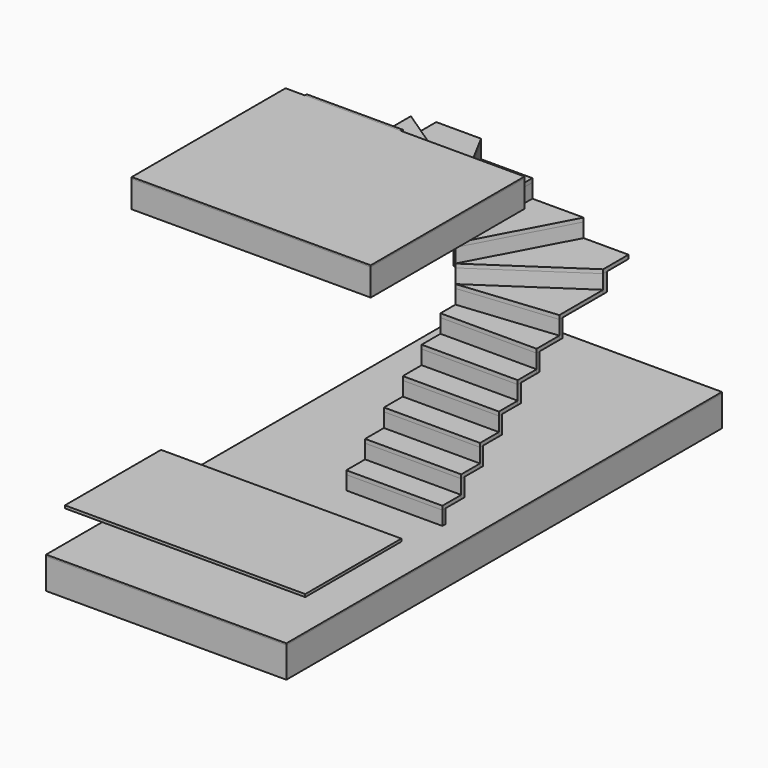
from build123d import *

# Parameters (mm, degrees)
F4_W      = 2486.2963052011
F4_H      = 280
F5_DEPTH  = 2000
F6_DEPTH  = 16
F7_W      = 5664.1902506969
F7_H      = 317.7745664499
F8_DEPTH  = 2500
F9_DEPTH  = 16
F2_W      = 1000
F2_H      = 245
F10_DEPTH = 40
F12_W     = 1000
F12_H     = 245
F13_DEPTH = 40
F16_DEPTH = 40
F19_DEPTH = 40
F22_DEPTH = 40
F25_DEPTH = 40
F28_DEPTH = 40
F31_DEPTH = 40
F34_DEPTH = 40
F37_DEPTH = 40
F39_W     = 1000
F39_H     = 245
F40_DEPTH = 40
F42_W     = 1000
F42_H     = 245
F43_DEPTH = 40
F46_DEPTH = 40
F48_W     = 1000
F48_H     = 245
F49_DEPTH = 40
F51_W     = 1000
F51_H     = 245
F52_DEPTH = 40
F53_W     = 1000
F53_H     = 40
F53_H_2   = 188
F54_DEPTH = 25
F55_W     = 40
F55_H     = 188
F56_DEPTH = 1000
F57_W     = 40
F57_H     = 188
F58_DEPTH = 1000
F60_DEPTH = 188
F62_DEPTH = 188
F64_DEPTH = 188
F65_W     = 40
F65_H     = 1000
F66_DEPTH = 188
F68_DEPTH = 188
F70_DEPTH = 188
F72_DEPTH = 188
F73_W     = 40
F73_H     = 188
F74_DEPTH = 1000
F73_H_2   = 145
F75_W     = 2500
F75_H     = 1250
F76_DEPTH = 28


with BuildPart() as f5:
    # F4 (on plane+point) → F5 (new body)
    with BuildSketch(Plane.XZ.offset(855)):
        with Locations((43.2685017586, 32)):
            Rectangle(F4_W, F4_H)
    extrude(amount=F5_DEPTH)


with BuildPart() as f6:
    # F6 (new): a face of the model
    f6_faces = [f5.part.faces().sort_by_distance(p)[0] for p in [
        (43.2685017586, -1855, 172),
    ]]
    extrude(f6_faces, amount=F6_DEPTH)


with BuildPart() as f8:
    # F7 (on face) → F8 (new body)
    with BuildSketch(Plane(origin=(-1199.879650842, 0, 0), x_dir=(0, -1, 0), z_dir=(-1, 0, 0))):
        with Locations((1136.8854641914, -2991.8872832249)):
            Rectangle(F7_W, F7_H)
    extrude(amount=-F8_DEPTH)


with BuildPart() as f9:
    # F9 (new): a face of the model
    f9_faces = [f8.part.faces().sort_by_distance(p)[0] for p in [
        (50.120349158, -1136.8854641914, -2833),
    ]]
    extrude(f9_faces, amount=F9_DEPTH)


with BuildPart() as f10:
    # F2 (on Top) → F10 (new body)
    with BuildSketch(Plane.XY):
        with Locations((-500, -707.5)):
            Rectangle(F2_W, F2_H)
    extrude(amount=-F10_DEPTH)


with BuildPart() as f13:
    # F12 (on offset) → F13 (new body)
    with BuildSketch(Plane(origin=(0, 0, -188), x_dir=(1, 0, 0), z_dir=(0, 0, -1))):
        with Locations((-500, 462.5)):
            Rectangle(F12_W, F12_H)
    extrude(amount=F13_DEPTH)


with BuildPart() as f16:
    # F15 (on offset) → F16 (new body)
    with BuildSketch(Plane(origin=(0, 0, -376), x_dir=(1, 0, 0), z_dir=(0, 0, -1))):
        Polygon((-1000, 340), (-1000, 43.8609200193), (-497.4621748888, 94.6871333065), (0, 145), (0, 340), align=None)
    extrude(amount=F16_DEPTH)


with BuildPart() as f19:
    # F18 (on offset) → F19 (new body)
    with BuildSketch(Plane(origin=(0, 0, -564), x_dir=(1, 0, 0), z_dir=(0, 0, -1))):
        Polygon((-415.248685246, -133.5112733831), (0, 145), (-497.4621748888, 94.6871333065), (-1000, 43.8609200193), (-1000, -525.7095850722), align=None)
    extrude(amount=F19_DEPTH)


with BuildPart() as f22:
    # F21 (on offset) → F22 (new body)
    with BuildSketch(Plane(origin=(0, 0, -752), x_dir=(1, 0, 0), z_dir=(0, 0, -1))):
        Polygon((-415.248685246, -133.5112733831), (-1000, -525.7095850722), (-1000, -855), (-533.3881466372, -855), (-235.3129440856, -296.1664293051), (0, 145), align=None)
    extrude(amount=F22_DEPTH)


with BuildPart() as f25:
    # F24 (on offset) → F25 (new body)
    with BuildSketch(Plane(origin=(0, 0, -940), x_dir=(1, 0, 0), z_dir=(0, 0, -1))):
        Polygon((-533.3881466372, -855), (0, -855), (0, 145), (-235.3129440856, -296.1664293051), align=None)
    extrude(amount=F25_DEPTH)


with BuildPart() as f28:
    # F27 (on offset) → F28 (new body)
    with BuildSketch(Plane(origin=(0, 0, -1128), x_dir=(1, 0, 0), z_dir=(0, 0, -1))):
        Polygon((0, -855), (533.3881466372, -855), (235.3129440856, -296.1664293051), (0, 145), align=None)
    extrude(amount=F28_DEPTH)


with BuildPart() as f31:
    # F30 (on offset) → F31 (new body)
    with BuildSketch(Plane(origin=(0, 0, -1316), x_dir=(1, 0, 0), z_dir=(0, 0, -1))):
        Polygon((415.248685246, -133.5112733831), (0, 145), (235.3129440856, -296.1664293051), (533.3881466372, -855), (1000, -855), (1000, -525.7095850722), align=None)
    extrude(amount=F31_DEPTH)


with BuildPart() as f34:
    # F33 (on offset) → F34 (new body)
    with BuildSketch(Plane(origin=(0, 0, -1504), x_dir=(1, 0, 0), z_dir=(0, 0, -1))):
        Polygon((497.4621748888, 94.6871333065), (0, 145), (415.248685246, -133.5112733831), (1000, -525.7095850722), (1000, 43.8609200193), align=None)
    extrude(amount=F34_DEPTH)


with BuildPart() as f37:
    # F36 (on offset) → F37 (new body)
    with BuildSketch(Plane(origin=(0, 0, -1692), x_dir=(1, 0, 0), z_dir=(0, 0, -1))):
        Polygon((497.4621748888, 94.6871333065), (1000, 43.8609200193), (1000, 340), (0, 340), (0, 145), align=None)
    extrude(amount=F37_DEPTH)


with BuildPart() as f40:
    # F39 (on offset) → F40 (new body)
    with BuildSketch(Plane(origin=(0, 0, -1880), x_dir=(1, 0, 0), z_dir=(0, 0, -1))):
        with Locations((500, 462.5)):
            Rectangle(F39_W, F39_H)
    extrude(amount=F40_DEPTH)


with BuildPart() as f43:
    # F42 (on offset) → F43 (new body)
    with BuildSketch(Plane(origin=(0, 0, -2068), x_dir=(1, 0, 0), z_dir=(0, 0, -1))):
        with Locations((500, 707.5)):
            Rectangle(F42_W, F42_H)
    extrude(amount=F43_DEPTH)


with BuildPart() as f46:
    # F45 (on offset) → F46 (new body)
    with BuildSketch(Plane(origin=(0, 0, -2256), x_dir=(1, 0, 0), z_dir=(0, 0, -1))):
        Polygon((0, 1075), (0, 855), (0, 830), (1000, 830), (1000, 855), (1000, 1075), align=None)
    extrude(amount=F46_DEPTH)


with BuildPart() as f49:
    # F48 (on offset) → F49 (new body)
    with BuildSketch(Plane(origin=(0, 0, -2444), x_dir=(1, 0, 0), z_dir=(0, 0, -1))):
        with Locations((500, 1197.5)):
            Rectangle(F48_W, F48_H)
    extrude(amount=F49_DEPTH)


with BuildPart() as f52:
    # F51 (on offset) → F52 (new body)
    with BuildSketch(Plane(origin=(0, 0, -2632), x_dir=(1, 0, 0), z_dir=(0, 0, -1))):
        with Locations((500, 1442.5)):
            Rectangle(F51_W, F51_H)
    extrude(amount=F52_DEPTH)


with BuildPart() as f54:
    # F53 (on face) → F54 (new body)
    with BuildSketch(Plane.XZ.offset(830)):
        with Locations((-500, -20)):
            Rectangle(F53_W, F53_H)
        with Locations((-500, 94)):
            Rectangle(F53_W, F53_H_2)
    extrude(amount=F54_DEPTH)


with BuildPart() as f56:
    # F55 (on face) → F56 (new body)
    with BuildSketch(Plane(origin=(-1000, 0, 0), x_dir=(0, -1, 0), z_dir=(-1, 0, 0))):
        with Locations((605, -134)):
            Rectangle(F55_W, F55_H)
    extrude(amount=-F56_DEPTH)


with BuildPart() as f58:
    # F57 (on face) → F58 (new body)
    with BuildSketch(Plane(origin=(-1000, 0, 0), x_dir=(0, -1, 0), z_dir=(-1, 0, 0))):
        with Locations((360, -322)):
            Rectangle(F57_W, F57_H)
    extrude(amount=-F58_DEPTH)


with BuildPart() as f60:
    # F59 (on face) → F60 (new body)
    with BuildSketch(Plane(origin=(0, 0, -416), x_dir=(1, 0, 0), z_dir=(0, 0, -1))):
        Polygon((-1000, 43.8609200193), (0, 145), (0, 185.204061755), (-1000, 84.0649817743), align=None)
    extrude(amount=F60_DEPTH)


with BuildPart() as f62:
    # F61 (on face) → F62 (new body)
    with BuildSketch(Plane(origin=(0, 0, -604), x_dir=(1, 0, 0), z_dir=(0, 0, -1))):
        Polygon((-1000, -525.7095850722), (0, 145), (-84.5618037413, 136.4474969681), (-1000, -477.5456758038), align=None)
        Polygon((-84.5618037413, 136.4474969681), (0, 145), (-22.2809018706, 178.2198948197), align=None)
    extrude(amount=F62_DEPTH)


with BuildPart() as f64:
    # F63 (on face) → F64 (new body)
    with BuildSketch(Plane(origin=(0, 0, -792), x_dir=(1, 0, 0), z_dir=(0, 0, -1))):
        Polygon((-533.3881466372, -855), (0, 145), (-70.5866286888, 97.6568715605), (-578.7225117917, -855), align=None)
        Polygon((-70.5866286888, 97.6568715605), (0, 145), (-35.2933143444, 163.8250355268), align=None)
    extrude(amount=F64_DEPTH)


with BuildPart() as f66:
    # F65 (on face) → F66 (new body)
    with BuildSketch(Plane(origin=(0, 0, -980), x_dir=(1, 0, 0), z_dir=(0, 0, -1))):
        with Locations((-20, -355)):
            Rectangle(F65_W, F65_H)
    extrude(amount=F66_DEPTH)


with BuildPart() as f68:
    # F67 (on face) → F68 (new body)
    with BuildSketch(Plane(origin=(0, 0, -1168), x_dir=(1, 0, 0), z_dir=(0, 0, -1))):
        Polygon((533.3881466372, -855), (0, 145), (-35.2933143444, 126.1749644732), (488.0537814828, -855), align=None)
    extrude(amount=F68_DEPTH)


with BuildPart() as f70:
    # F69 (on face) → F70 (new body)
    with BuildSketch(Plane(origin=(0, 0, -1356), x_dir=(1, 0, 0), z_dir=(0, 0, -1))):
        Polygon((1000, -573.8734943406), (1000, -525.7095850722), (0, 145), (-22.2809018706, 111.7801051803), align=None)
    extrude(amount=F70_DEPTH)


with BuildPart() as f72:
    # F71 (on face) → F72 (new body)
    with BuildSketch(Plane(origin=(0, 0, -1544), x_dir=(1, 0, 0), z_dir=(0, 0, -1))):
        Polygon((1000, 3.6568582643), (1000, 43.8609200193), (0, 145), (-4.0250293355, 105.2030260089), align=None)
    extrude(amount=F72_DEPTH)


with BuildPart() as f74:
    # F73 (on face) → F74 (new body)
    with BuildSketch(Plane.YZ.offset(1000)):
        with Locations((-565, -2014)):
            Rectangle(F73_W, F73_H)
    extrude(amount=-F74_DEPTH)


with BuildPart() as f74b:
    # F73 (on face) → F74, piece 2 (new body)
    with BuildSketch(Plane.YZ.offset(1000)):
        with Locations((-810, -2202)):
            Rectangle(F73_W, F73_H)
    extrude(amount=-F74_DEPTH)


with BuildPart() as f74c:
    # F73 (on face) → F74, piece 3 (new body)
    with BuildSketch(Plane.YZ.offset(1000)):
        with Locations((-1055, -2390)):
            Rectangle(F73_W, F73_H)
    extrude(amount=-F74_DEPTH)


with BuildPart() as f74d:
    # F73 (on face) → F74, piece 4 (new body)
    with BuildSketch(Plane.YZ.offset(1000)):
        with Locations((-1300, -2578)):
            Rectangle(F73_W, F73_H)
    extrude(amount=-F74_DEPTH)


with BuildPart() as f74e:
    # F73 (on face) → F74, piece 5 (new body)
    with BuildSketch(Plane.YZ.offset(1000)):
        with Locations((-1545, -2744.5)):
            Rectangle(F73_W, F73_H_2)
    extrude(amount=-F74_DEPTH)


with BuildPart() as f74f:
    # F73 (on face) → F74, piece 6 (new body)
    with BuildSketch(Plane.YZ.offset(1000)):
        with Locations((-320, -1826)):
            Rectangle(F73_W, F73_H)
    extrude(amount=-F74_DEPTH)


with BuildPart() as f76:
    # F75 (on face) → F76 (new body)
    with BuildSketch(Plane.XY.offset(-2817)):
        with Locations((-337.8175497055, -2613.9054298401)):
            Rectangle(F75_W, F75_H)
    extrude(amount=F76_DEPTH)


solid = Compound([f5.part, f6.part, f8.part, f9.part, f10.part, f13.part, f16.part, f19.part, f22.part, f25.part, f28.part, f31.part, f34.part, f37.part, f40.part, f43.part, f46.part, f49.part, f52.part, f54.part, f56.part, f58.part, f60.part, f62.part, f64.part, f66.part, f68.part, f70.part, f72.part, f74.part, f74b.part, f74c.part, f74d.part, f74e.part, f74f.part, f76.part])
